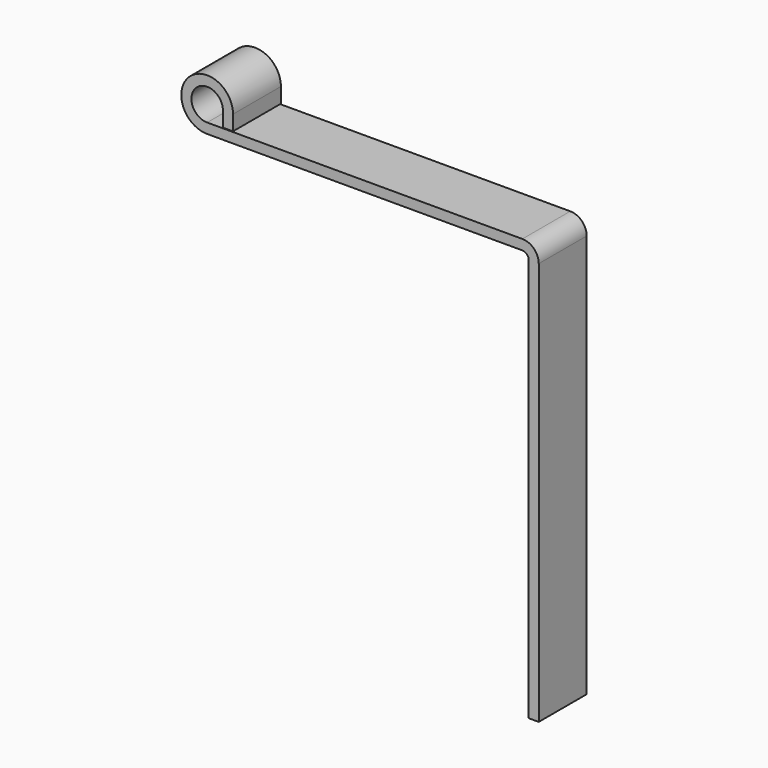
from build123d import *

# Parameters (mm, degrees)
F1_DEPTH = 19


with BuildPart() as f1:
    # F0 (on Front) → F1 (new body)
    with BuildSketch(Plane.XZ):
        with BuildLine():
            ThreePointArc((0, -5), (-3.535534, 3.535534), (5, 0))
            Line((5, 0), (5, -4.8))
            Line((5, -4.8), (8.2, -4.8))
            Line((8.2, -4.8), (8.2, 0))
            ThreePointArc((8.2, 0), (-5.798276, 5.798276), (0, -8.2))
            Line((0, -8.2), (100, -8.2))
            ThreePointArc((100, -8.2), (101.414214, -8.785786), (102, -10.2))
            Line((102, -10.2), (102, -138.2))
            Line((102, -138.2), (105.2, -138.2))
            Line((105.2, -138.2), (105.2, -10.2))
            ThreePointArc((105.2, -10.2), (103.676955, -6.523045), (100, -5))
            Line((100, -5), (0, -5))
        make_face()
    extrude(amount=F1_DEPTH)


solid = f1.part
